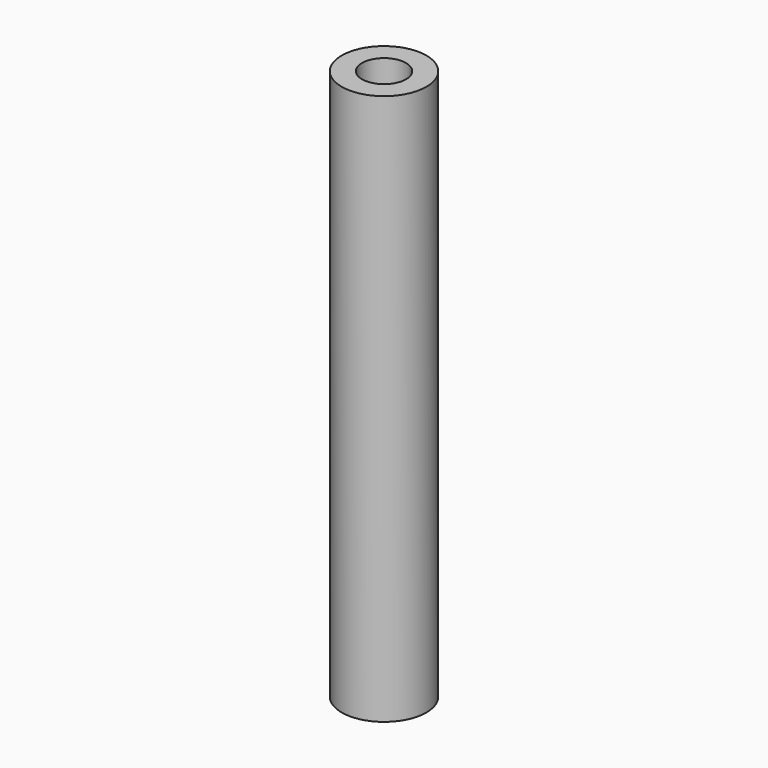
from build123d import *

# Parameters (mm, degrees)
SKETCH_R   = 5
SKETCH_R_2 = 2.6
PAD_DEPTH  = 65


with BuildPart() as part:
    # Sketch → Pad (new body)
    with BuildSketch(Plane.XY):
        Circle(SKETCH_R)
        Circle(SKETCH_R_2, mode=Mode.SUBTRACT)
    extrude(amount=PAD_DEPTH)


solid = part.part
